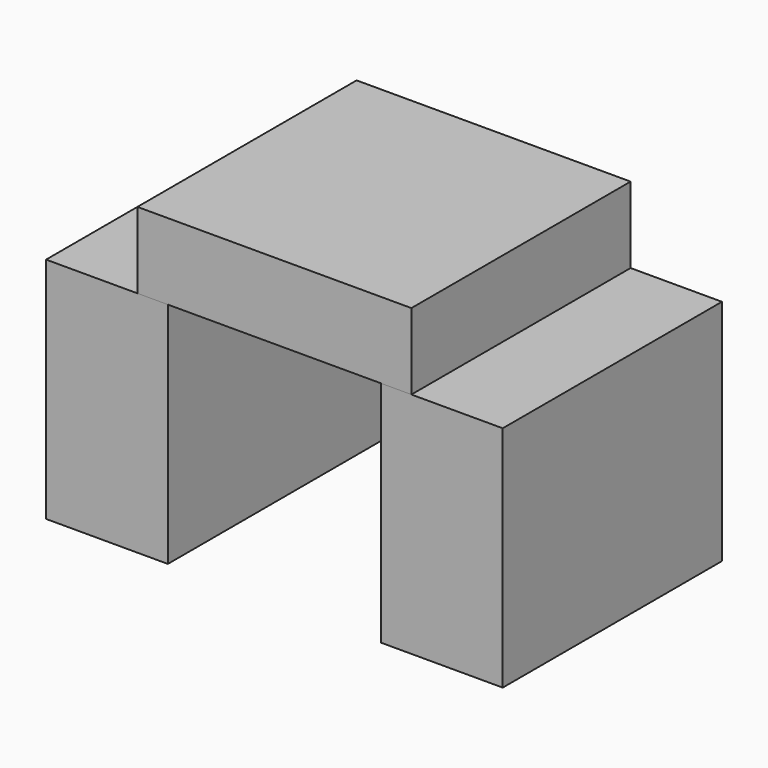
from build123d import *

# Parameters (mm, degrees)
F0_W     = 101.6
F0_H     = 63.5
F1_DEPTH = 228.6
F2_W     = 228.6
F2_H     = 114.3
F3_DEPTH = 63.5


with BuildPart() as f1:
    # F0 (on Front) → F1 (new body)
    with BuildSketch(Plane.XZ):
        with Locations((-139.7, 31.75)):
            Rectangle(F0_W, F0_H)
        with Locations((-139.7, 95.25)):
            Rectangle(F0_W, F0_H)
        with Locations((-139.7, 158.75)):
            Rectangle(F0_W, F0_H)
        with Locations((139.7, 95.25)):
            Rectangle(F0_W, F0_H)
        with Locations((139.7, 158.75)):
            Rectangle(F0_W, F0_H)
        with Locations((139.7, 31.75)):
            Rectangle(F0_W, F0_H)
    extrude(amount=-F1_DEPTH)


with BuildPart() as f3:
    # F2 (on face) → F3 (new body)
    with BuildSketch(Plane.XY.offset(190.5)):
        with Locations((0, 171.45)):
            Rectangle(F2_W, F2_H)
        with Locations((0, 57.15)):
            Rectangle(F2_W, F2_H)
    extrude(amount=F3_DEPTH)


solid = Compound([f1.part, f3.part])
